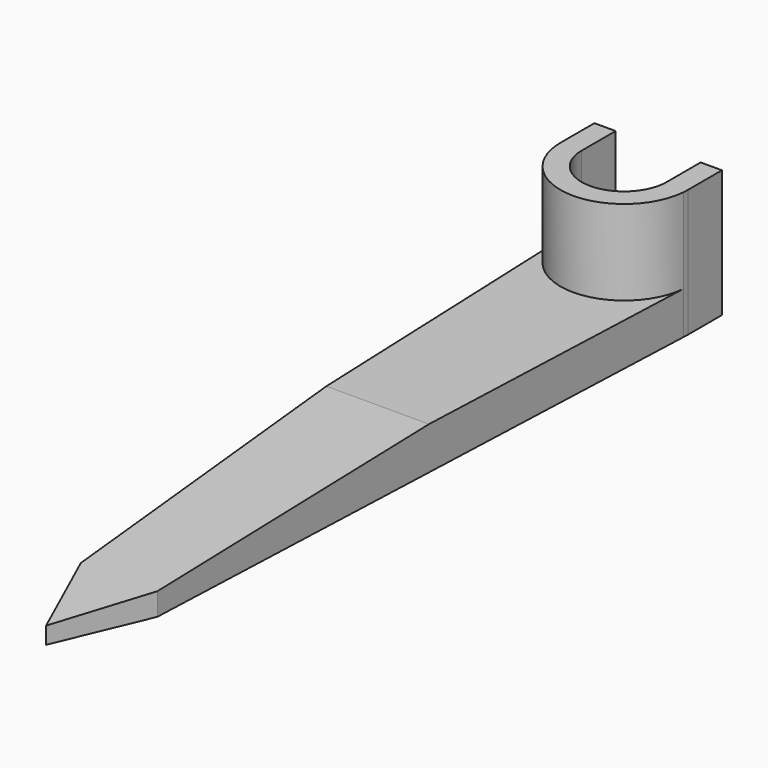
from build123d import *

# Parameters (mm, degrees)
F1_DEPTH      = 6.35
F2_DEPTH      = 19.05
F3_DEPTH      = 6.35
F5_DEPTH      = 25.4
F5_DEPTH_BACK = 25.4


with BuildPart() as f1:
    # F0 (on Top) → F1 (new body)
    with BuildSketch(Plane.XY):
        with BuildLine():
            Line((-9.4939634524, 93.546902302), (-5.715, 0))
            Line((-5.715, 0), (0, -13.6347989514))
            Line((0, -13.6347989514), (5.715, 0))
            Line((5.715, 0), (9.4939634524, 93.546902302))
            ThreePointArc((9.4939634524, 93.546902302), (0, 84.7902010486), (-9.4939634524, 93.546902302))
        make_face()
    extrude(amount=F1_DEPTH)

    # F0 (on Top) → F2 (join)
    with BuildSketch(Plane.XY):
        with BuildLine():
            Line((-9.525, 94.3152010486), (-9.4939634524, 93.546902302))
            ThreePointArc((-9.4939634524, 93.546902302), (0, 84.7902010486), (9.4939634524, 93.546902302))
            Line((9.4939634524, 93.546902302), (9.525, 94.3152010486))
            Line((9.525, 94.3152010486), (6.35, 94.3152010486))
            ThreePointArc((6.35, 94.3152010486), (0, 87.9652010486), (-6.35, 94.3152010486))
            Line((-6.35, 94.3152010486), (-9.525, 94.3152010486))
        make_face()
    extrude(amount=F2_DEPTH)

    # F3 (add): faces of the model
    f3_faces = [f1.faces().sort_by_distance(p)[0] for p in [
        (-7.9375, 94.3152010486, 9.525),
        (7.9375, 94.3152010486, 9.525),
    ]]
    extrude(f3_faces, amount=F3_DEPTH)

    # F4 (on Right) → F5 (cut, two sides)
    with BuildSketch(Plane.YZ) as f5_sk:
        Polygon((-30.6564283764, 9.0817261184), (-14.1004319647, 2.4969553254), (49.8651257087, 6.4478169652), (49.8651257087, 26.7665392731), align=None)
    extrude(amount=-F5_DEPTH, mode=Mode.SUBTRACT)
    extrude(f5_sk.sketch, amount=F5_DEPTH_BACK, mode=Mode.SUBTRACT)


solid = f1.part
